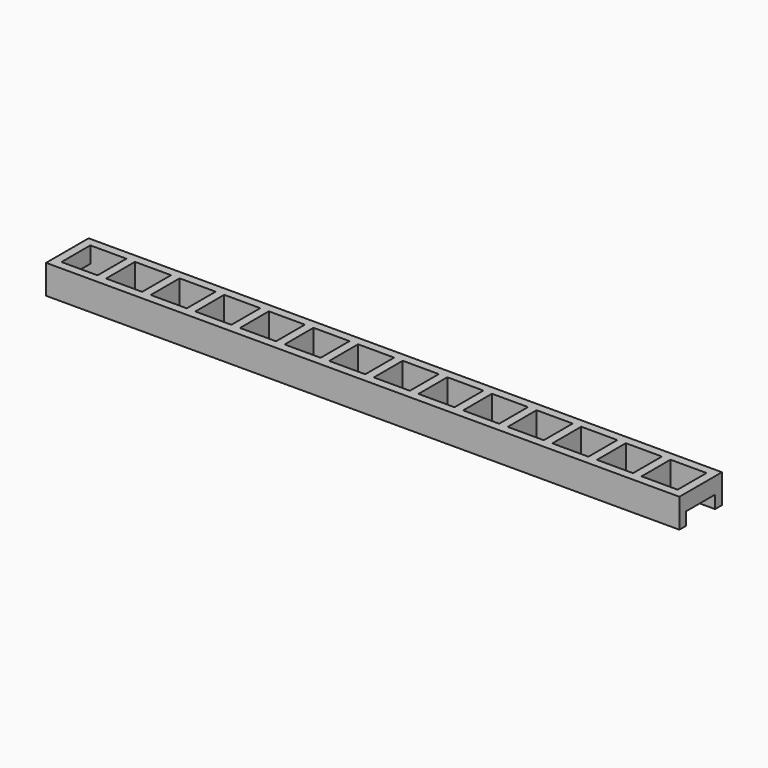
from build123d import *

# Parameters (mm, degrees)
SKETCH001_W      = 8.45
SKETCH001_H      = 8.45
EXTRUDE001_DEPTH = 3
SKETCH_W         = 148.3
SKETCH_H         = 12.45
SKETCH_W_2       = 8.45
SKETCH_H_2       = 8.45
EXTRUDE_DEPTH    = 6.8


with BuildPart() as extrude001:
    # Sketch001 → Extrude001 (new body)
    with BuildSketch(Plane.XY):
        with Locations((-142.725, 0)):
            Rectangle(SKETCH001_W, SKETCH001_H)
        with Locations((7.5, 0)):
            Rectangle(SKETCH001_W, SKETCH001_H)
    extrude(amount=EXTRUDE001_DEPTH)


with BuildPart() as cut:
    # Sketch → Extrude (new body)
    with BuildSketch(Plane.XY):
        with Locations((-67.925, 0)):
            Rectangle(SKETCH_W, SKETCH_H)
        Rectangle(SKETCH_W_2, SKETCH_H_2, mode=Mode.SUBTRACT)
        with Locations((-10.45, 0)):
            Rectangle(SKETCH_W_2, SKETCH_H_2, mode=Mode.SUBTRACT)
        with Locations((-20.9, 0)):
            Rectangle(SKETCH_W_2, SKETCH_H_2, mode=Mode.SUBTRACT)
        with Locations((-31.35, 0)):
            Rectangle(SKETCH_W_2, SKETCH_H_2, mode=Mode.SUBTRACT)
        with Locations((-41.8, 0)):
            Rectangle(SKETCH_W_2, SKETCH_H_2, mode=Mode.SUBTRACT)
        with Locations((-52.25, 0)):
            Rectangle(SKETCH_W_2, SKETCH_H_2, mode=Mode.SUBTRACT)
        with Locations((-62.7, 0)):
            Rectangle(SKETCH_W_2, SKETCH_H_2, mode=Mode.SUBTRACT)
        with Locations((-73.15, 0)):
            Rectangle(SKETCH_W_2, SKETCH_H_2, mode=Mode.SUBTRACT)
        with Locations((-83.6, 0)):
            Rectangle(SKETCH_W_2, SKETCH_H_2, mode=Mode.SUBTRACT)
        with Locations((-94.05, 0)):
            Rectangle(SKETCH_W_2, SKETCH_H_2, mode=Mode.SUBTRACT)
        with Locations((-104.5, 0)):
            Rectangle(SKETCH_W_2, SKETCH_H_2, mode=Mode.SUBTRACT)
        with Locations((-114.95, 0)):
            Rectangle(SKETCH_W_2, SKETCH_H_2, mode=Mode.SUBTRACT)
        with Locations((-125.4, 0)):
            Rectangle(SKETCH_W_2, SKETCH_H_2, mode=Mode.SUBTRACT)
        with Locations((-135.85, 0)):
            Rectangle(SKETCH_W_2, SKETCH_H_2, mode=Mode.SUBTRACT)
    extrude(amount=EXTRUDE_DEPTH)

    # Cut: cut Extrude001
    add(extrude001.part, mode=Mode.SUBTRACT)


solid = cut.part
